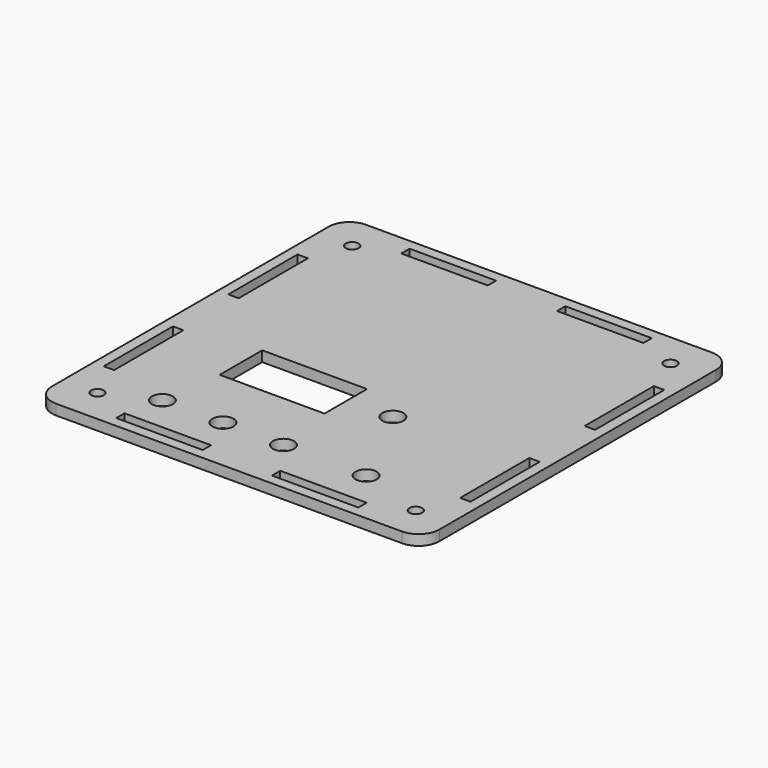
from build123d import *

# Parameters (mm, degrees)
SKETCH_R      = 3.05
SKETCH_R_2    = 1.85
SKETCH_W      = 30.3
SKETCH_H      = 15.35
SKETCH_W_2    = 25
SKETCH_H_2    = 3
SKETCH_W_3    = 3
SKETCH_H_3    = 25
EXTRUDE_DEPTH = 3


with BuildPart() as part:
    # Sketch → Extrude (new body)
    with BuildSketch(Plane.XY):
        with BuildLine():
            ThreePointArc((0, 106), (-4.242641, 104.242641), (-6, 100))
            Line((-6, 100), (-6, 0))
            ThreePointArc((-6, 0), (-4.242641, -4.242641), (0, -6))
            Line((0, -6), (100, -6))
            ThreePointArc((100, -6), (104.242641, -4.242641), (106, 0))
            Line((106, 0), (106, 100))
            ThreePointArc((106, 100), (104.242641, 104.242641), (100, 106))
            Line((0, 106), (100, 106))
        make_face()
        with Locations((17.7, 10.3)):
            Circle(SKETCH_R, mode=Mode.SUBTRACT)
        with Locations((35.2, 10.3)):
            Circle(SKETCH_R, mode=Mode.SUBTRACT)
        with Locations((52.7, 10.3)):
            Circle(SKETCH_R, mode=Mode.SUBTRACT)
        with Locations((76.6, 10.3)):
            Circle(SKETCH_R, mode=Mode.SUBTRACT)
        with Locations((63.4, 36.45)):
            Circle(SKETCH_R, mode=Mode.SUBTRACT)
        with Locations((4, 96)):
            Circle(SKETCH_R_2, mode=Mode.SUBTRACT)
        with Locations((96, 96)):
            Circle(SKETCH_R_2, mode=Mode.SUBTRACT)
        with Locations((96, 4)):
            Circle(SKETCH_R_2, mode=Mode.SUBTRACT)
        with Locations((4, 4)):
            Circle(SKETCH_R_2, mode=Mode.SUBTRACT)
        with Locations((35.195, 35.755)):
            Rectangle(SKETCH_W, SKETCH_H, mode=Mode.SUBTRACT)
        with Locations((27.5, 101.5)):
            Rectangle(SKETCH_W_2, SKETCH_H_2, mode=Mode.SUBTRACT)
        with Locations((72.5, 101.5)):
            Rectangle(SKETCH_W_2, SKETCH_H_2, mode=Mode.SUBTRACT)
        with Locations((101.5, 72.5)):
            Rectangle(SKETCH_W_3, SKETCH_H_3, mode=Mode.SUBTRACT)
        with Locations((101.5, 27.5)):
            Rectangle(SKETCH_W_3, SKETCH_H_3, mode=Mode.SUBTRACT)
        with Locations((72.5, -1.5)):
            Rectangle(SKETCH_W_2, SKETCH_H_2, mode=Mode.SUBTRACT)
        with Locations((27.5, -1.5)):
            Rectangle(SKETCH_W_2, SKETCH_H_2, mode=Mode.SUBTRACT)
        with Locations((-1.5, 27.5)):
            Rectangle(SKETCH_W_3, SKETCH_H_3, mode=Mode.SUBTRACT)
        with Locations((-1.5, 72.5)):
            Rectangle(SKETCH_W_3, SKETCH_H_3, mode=Mode.SUBTRACT)
    extrude(amount=EXTRUDE_DEPTH)


solid = part.part
